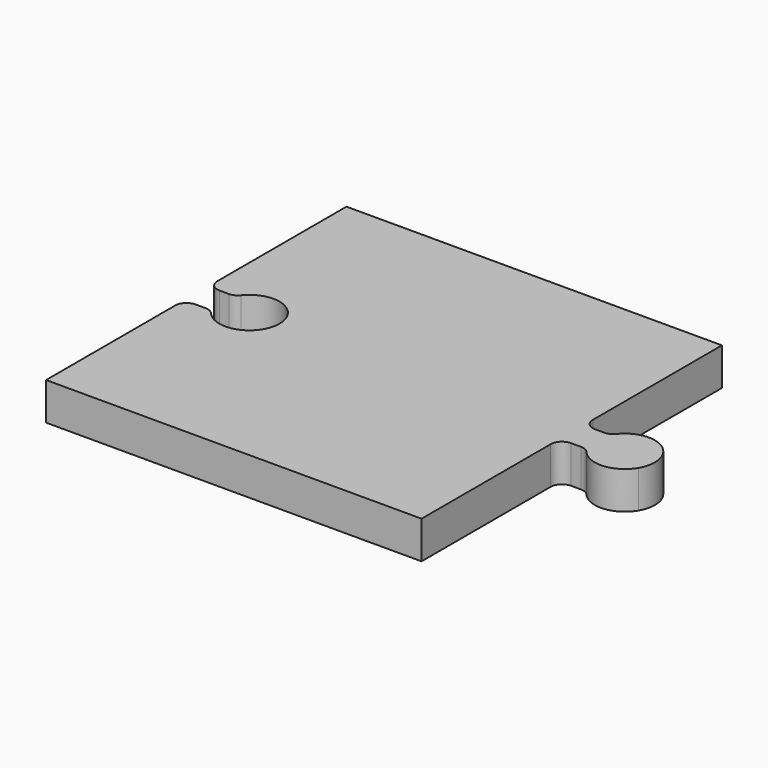
from build123d import *

# Parameters (mm, degrees)
F1_DEPTH = 5


with BuildPart() as f1:
    # F0 (on Top) → F1 (new body)
    with BuildSketch(Plane.XY):
        with BuildLine():
            Line((-50, 0), (0, 0))
            Line((0, 0), (0, 21.5))
            ThreePointArc((0, 21.5), (0.43934, 22.56066), (1.5, 23))
            Line((1.5, 23), (2.833394, 23))
            ThreePointArc((2.833394, 23), (3.463735, 22.861129), (3.97736, 22.470228))
            ThreePointArc((3.97736, 22.470228), (7.353826, 21.0708), (10.458196, 23))
            ThreePointArc((10.458196, 23), (9.313788, 28.340013), (3.90835, 27.561137))
            ThreePointArc((3.90835, 27.561137), (3.387237, 27.14754), (2.738506, 27))
            Line((2.738506, 27), (1.5, 27))
            ThreePointArc((1.5, 27), (0.43934, 27.43934), (0, 28.5))
            Line((0, 28.5), (0, 50))
            Line((0, 50), (-50, 50))
            Line((-50, 50), (-50, 28.5))
            ThreePointArc((-50, 28.5), (-49.56066, 27.43934), (-48.5, 27))
            Line((-48.5, 27), (-47.256585, 27))
            ThreePointArc((-47.256585, 27), (-46.607854, 27.14754), (-46.086741, 27.561137))
            ThreePointArc((-46.086741, 27.561137), (-38.967523, 25.111719), (-46.017731, 22.470228))
            ThreePointArc((-46.017731, 22.470228), (-46.531357, 22.861129), (-47.161697, 23))
            Line((-47.161697, 23), (-48.5, 23))
            ThreePointArc((-48.5, 23), (-49.56066, 22.56066), (-50, 21.5))
            Line((-50, 21.5), (-50, 0))
        make_face()
    extrude(amount=F1_DEPTH)


solid = f1.part
